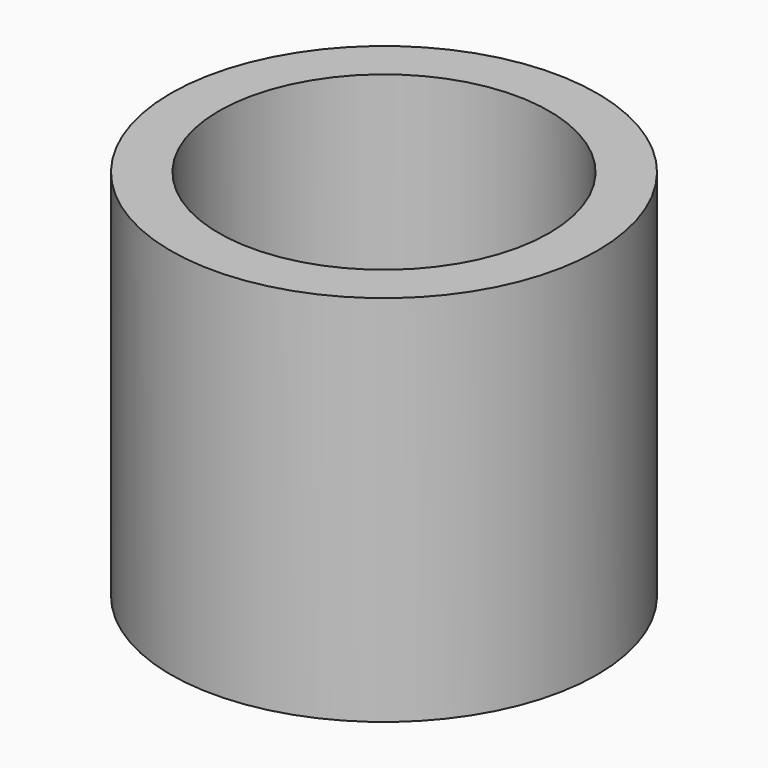
from build123d import *

# Parameters (mm, degrees)
SKETCH_R     = 4
PAD_DEPTH    = 7
SKETCH001_R  = 3.1
POCKET_DEPTH = 4.5


with BuildPart() as part:
    # Sketch → Pad (new body)
    with BuildSketch(Plane.XY):
        with Locations((5, 5)):
            Circle(SKETCH_R)
    extrude(amount=PAD_DEPTH)

    # Sketch001 (on Face3 of Pad) → Pocket (cut)
    with BuildSketch(Plane.XY.offset(7)):
        with Locations((5, 5)):
            Circle(SKETCH001_R)
    extrude(amount=-POCKET_DEPTH, mode=Mode.SUBTRACT)


solid = part.part
